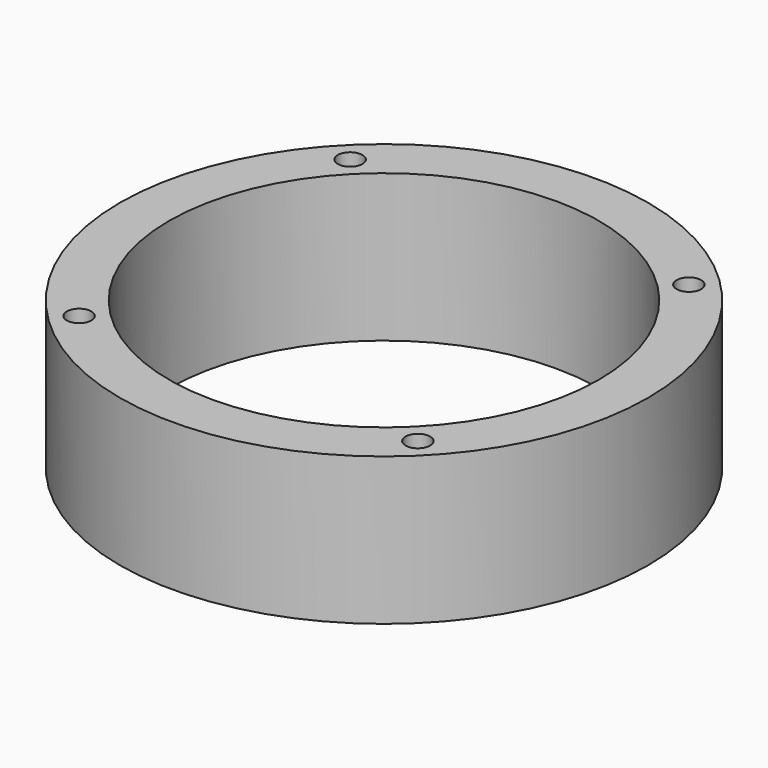
from build123d import *

# Parameters (mm, degrees)
F0_R     = 21.5
F1_DEPTH = 12
F3_D     = 35
F5_D     = 2
F5_DEPTH = 10
F5_TIP   = 0.600860619


with BuildPart() as f1:
    # F0 (on Top) → F1 (new body)
    with BuildSketch(Plane.XY):
        Circle(F0_R)
    extrude(amount=F1_DEPTH)

    # F3 (through all)
    with Locations(Plane.XY.offset(12)):
        with Locations((0, 0)):
            Hole(F3_D / 2)

    # F5
    with Locations(Plane.XY.offset(12)):
        with Locations((-13.7885822331, 13.7885822331), (13.7885822331, 13.7885822331), (13.7885822331, -13.7885822331), (-13.7885822331, -13.7885822331)):
            Hole(F5_D / 2, depth=F5_DEPTH)
            with Locations((0, 0, -(F5_DEPTH + F5_TIP / 2))):  # 118° drill point
                Cone(0, F5_D / 2, F5_TIP, mode=Mode.SUBTRACT)


solid = f1.part
